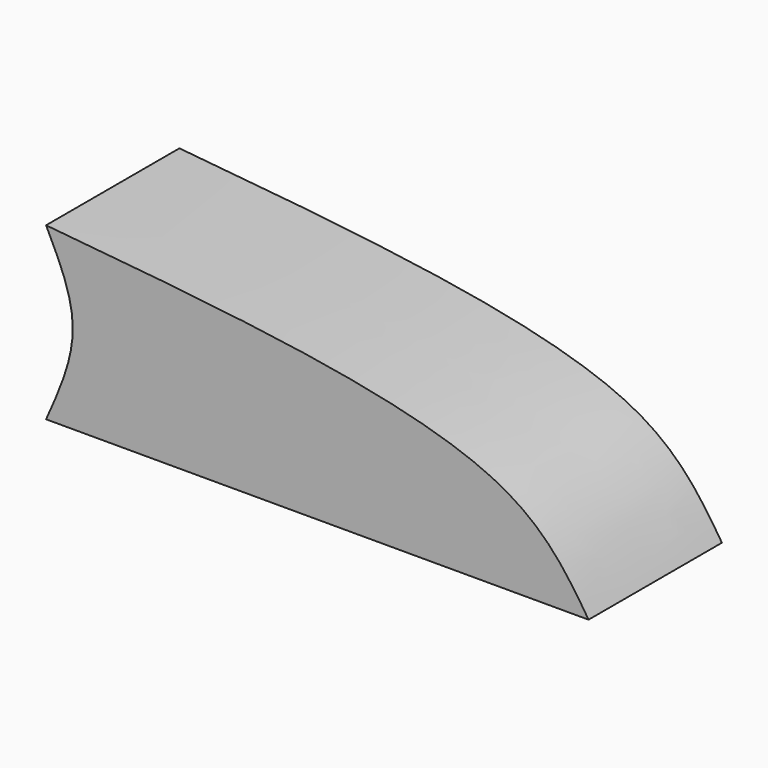
from build123d import *

# Parameters (mm, degrees)
F1_DEPTH = 50.8


with BuildPart() as f1:
    # F0 (on Front) → F1 (new body)
    with BuildSketch(Plane.XZ):
        with BuildLine():
            add(Edge.make_bspline(
                [(-84.2010006309, 10.0330002606), (-80.2016757869, 1.9410002702), (-72.0025118474, -14.64870852), (-80.0690805116, -32.7599294926), (-84.2010006309, -42.036999017)],
                knots=[0, 0, 0, 0, 0.4877722745, 1, 1, 1, 1], degree=3))
            Line((-84.2010006309, -42.036999017), (81.1530053616, -42.036999017))
            add(Edge.make_bspline(
                [(-84.2010006309, 10.0330002606), (-28.7009769168, 4.8443041749), (55.9102096358, -3.0659939311), (74.6912400111, -32.0610243637), (81.1530053616, -42.036999017)],
                knots=[0, 0, 0, 0, 0.6559419147, 1, 1, 1, 1], degree=3))
        make_face()
    extrude(amount=F1_DEPTH)


solid = f1.part
